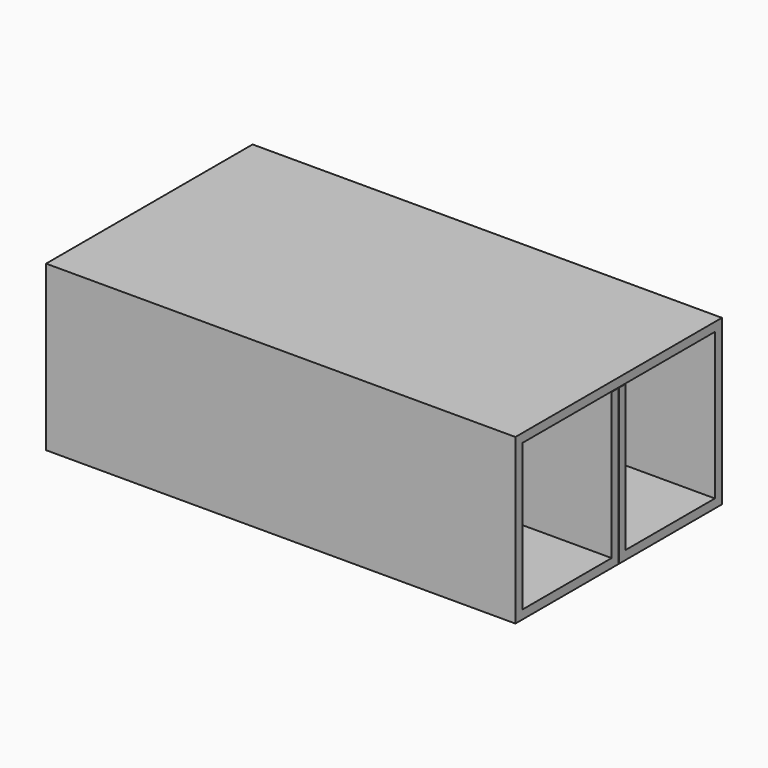
from build123d import *

# Parameters (mm, degrees)
F1_DEPTH = 127


with BuildPart() as f1:
    # F0 (on Right) → F1 (new body, symmetric)
    with BuildSketch(Plane.YZ):
        Polygon((69.85, 88.9), (-69.85, 88.9), (-69.85, 0), (-0.127, 0), (-0.127, 83.8835), (-4.7625, 83.8835), (-4.7625, 4.7625), (-65.0875, 4.7625), (-65.0875, 84.1375), (65.0875, 84.1375), (65.0875, 4.7625), (4.7625, 4.7625), (4.7625, 83.8835), (0.127, 83.8835), (0.127, 0), (69.85, 0), align=None)
    extrude(amount=F1_DEPTH, both=True)


solid = f1.part
